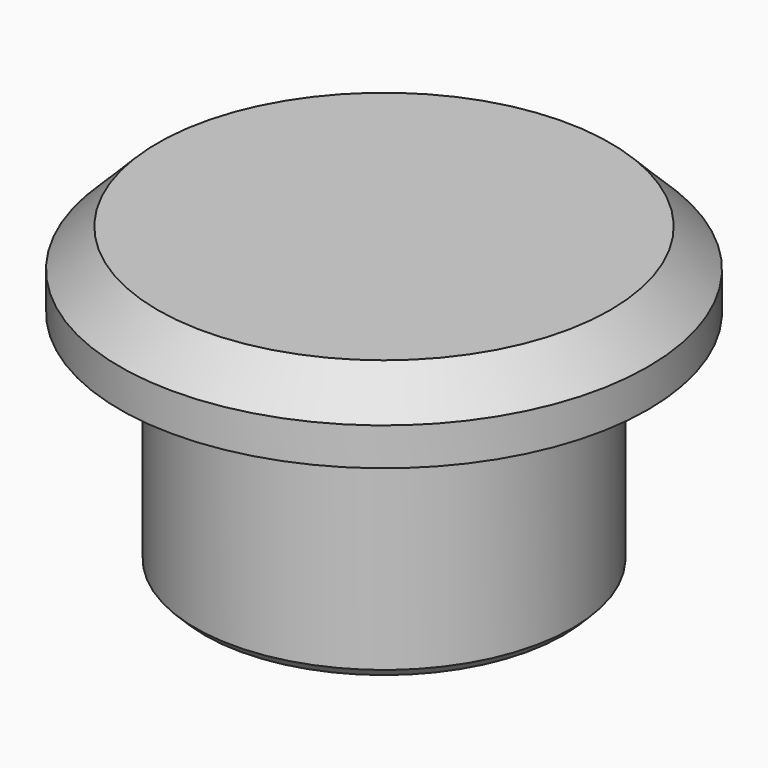
from build123d import *

# Parameters (mm, degrees)
F0_R     = 7
F1_DEPTH = 2
F2_SIZE  = 1
F3_R     = 5
F4_DEPTH = 6
F5_SIZE  = 0.25
F7_D     = 6
F7_DEPTH = 4
F7_TIP   = 1.8025818571


with BuildPart() as f1:
    # F0 (on Top) → F1 (new body)
    with BuildSketch(Plane.XY):
        Circle(F0_R)
    extrude(amount=F1_DEPTH)

    # F2
    f2_edges = [f1.edges().sort_by_distance(p)[0] for p in [
        (-7, 0, 2),
    ]]
    chamfer(f2_edges, length=F2_SIZE)

    # F3 (on face) → F4 (join)
    with BuildSketch(Plane(origin=(0, 0, 0), x_dir=(1, 0, 0), z_dir=(0, 0, -1))):
        Circle(F3_R)
    extrude(amount=F4_DEPTH)

    # F5
    f5_edges = [f1.edges().sort_by_distance(p)[0] for p in [
        (-5, 0, -6),
    ]]
    chamfer(f5_edges, length=F5_SIZE)

    # F7
    with Locations(Plane(origin=(0, 0, -6), x_dir=(1, 0, 0), z_dir=(0, 0, -1))):
        with Locations((0, 0)):
            Hole(F7_D / 2, depth=F7_DEPTH)
            with Locations((0, 0, -(F7_DEPTH + F7_TIP / 2))):  # 118° drill point
                Cone(0, F7_D / 2, F7_TIP, mode=Mode.SUBTRACT)


solid = f1.part
